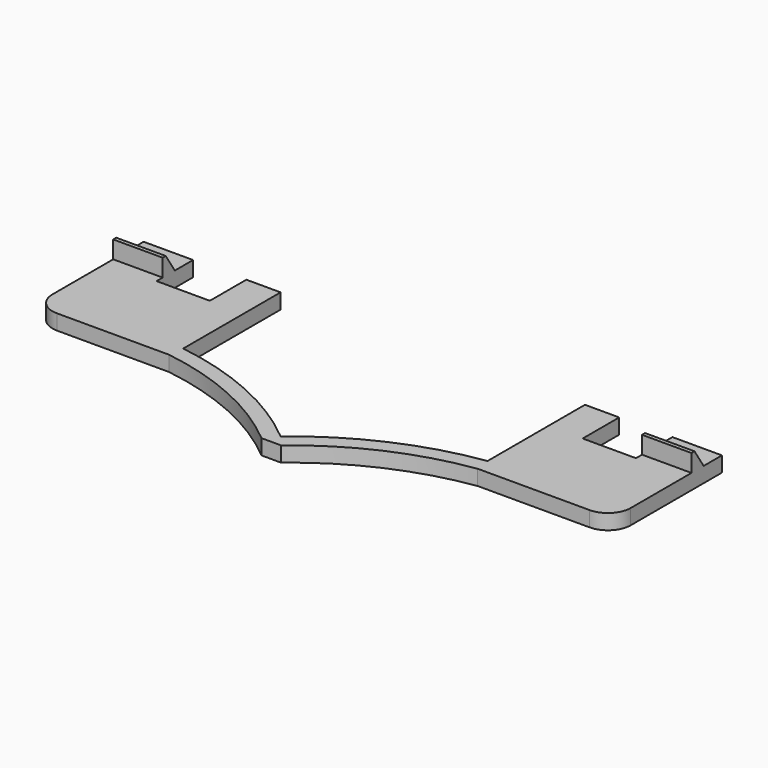
from build123d import *

# Parameters (mm, degrees)
F1_DEPTH = 2
F2_W     = 7
F2_H     = 6
F3_DEPTH = 2
F5_DEPTH = 6.5
F7_DEPTH = 6.5


with BuildPart() as f1:
    # F0 (on Top) → F1 (new body)
    with BuildSketch(Plane.XY):
        with BuildLine():
            Line((-40, -16), (-40, 0))
            Line((-40, 0), (-58, 0))
            Line((-58, 0), (-58, -14.978968))
            ThreePointArc((-58, -14.978968), (-57.12132, -17.100288), (-55, -17.978968))
            Line((-55, -17.978968), (-40.289286, -17.978968))
            ThreePointArc((-40.289286, -17.978968), (-30.191853, -20.92634), (-21.289286, -26.528968))
            Line((-21.289286, -26.528968), (-18.710714, -26.528968))
            ThreePointArc((-18.710714, -26.528968), (-9.808147, -20.92634), (0.289286, -17.978968))
            Line((0.289286, -17.978968), (15, -17.978968))
            ThreePointArc((15, -17.978968), (17.12132, -17.100288), (18, -14.978968))
            Line((18, -14.978968), (18, 0))
            Line((18, 0), (0, 0))
            Line((0, 0), (0, -16))
            ThreePointArc((0, -16), (-10.628876, -19.102497), (-20, -25))
            ThreePointArc((-20, -25), (-29.371124, -19.102497), (-40, -16))
        make_face()
    extrude(amount=F1_DEPTH)

    # F2 (on face) → F3 (cut, through all)
    with BuildSketch(Plane.XY.offset(2)):
        with Locations((-48, -3)):
            Rectangle(F2_W, F2_H)
        with Locations((8, -3)):
            Rectangle(F2_W, F2_H)
    extrude(amount=-F3_DEPTH, mode=Mode.SUBTRACT)

    # F4 (on face) → F5 (join, through all)
    with BuildSketch(Plane(origin=(-58, 0, 0), x_dir=(0, -1, 0), z_dir=(-1, 0, 0))):
        Polygon((4.5, 4.3), (3, 2), (5, 2), (5, 4.3), align=None)
    extrude(amount=-F5_DEPTH)

    # F6 (on face) → F7 (join, through all)
    with BuildSketch(Plane.YZ.offset(18)):
        Polygon((-3, 2), (-4.5, 4.3), (-5, 4.3), (-5, 2), align=None)
    extrude(amount=-F7_DEPTH)


solid = f1.part
